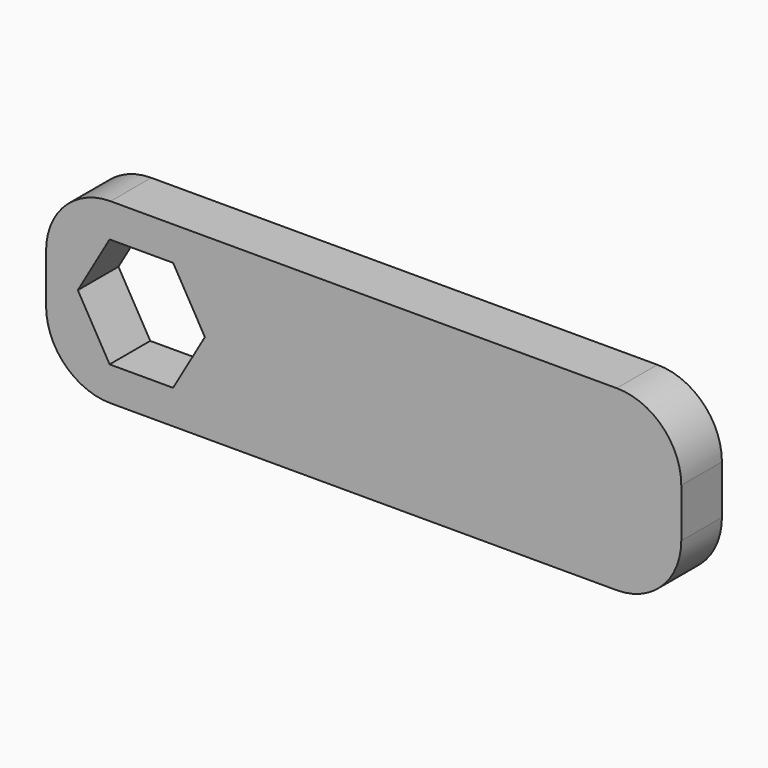
from build123d import *

# Parameters (mm, degrees)
F0_W     = 50
F0_H     = 14
F1_DEPTH = 4
F3_DEPTH = 4.001
F4_R     = 5.08


with BuildPart() as f1:
    # F0 (on Front) → F1 (new body)
    with BuildSketch(Plane.XZ):
        with Locations((25, 7)):
            Rectangle(F0_W, F0_H)
    extrude(amount=F1_DEPTH)

    # F2 (on face) → F3 (cut, through all)
    with BuildSketch(Plane.XZ.offset(4)):
        Polygon((12.5, 7), (10, 11.330127), (5, 11.330127), (2.5, 7), (5, 2.669873), (10, 2.669873), align=None)
    extrude(amount=-F3_DEPTH, mode=Mode.SUBTRACT)

    # F4
    f4_edges = [f1.edges().sort_by_distance(p)[0] for p in [
        (0, -2, 14),
        (50, -2, 14),
        (50, -2, 0),
        (0, -2, 0),
    ]]
    fillet(f4_edges, radius=F4_R)


solid = f1.part
